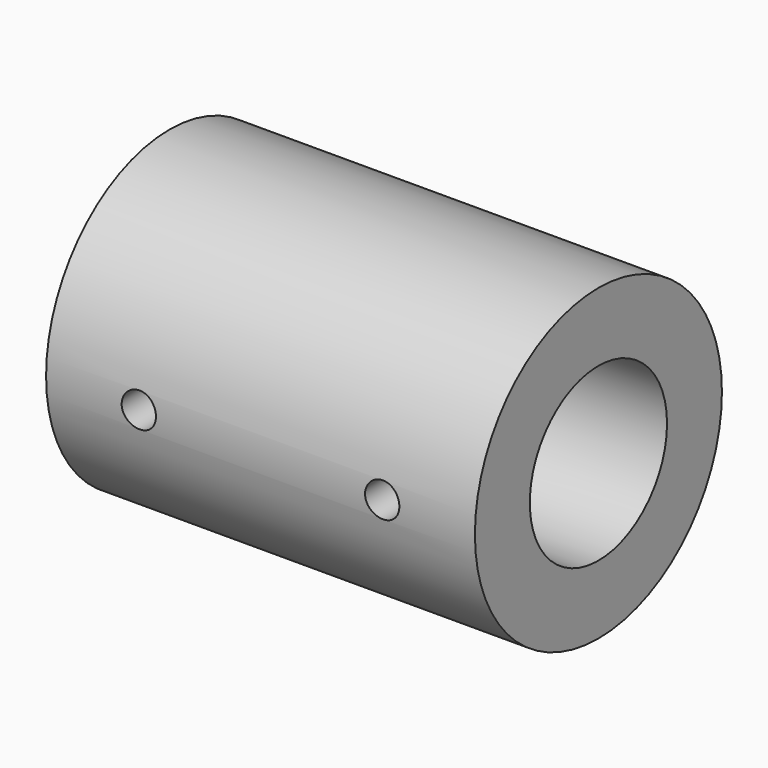
from build123d import *

# Parameters (mm, degrees)
F0_R     = 9
F1_DEPTH = 12.5
F2_R     = 5
F3_DEPTH = 12
F4_R     = 2.5
F5_DEPTH = 13
F7_R     = 1
F8_DEPTH = 9


with BuildPart() as f1:
    # F0 (on Right) → F1 (new body, symmetric)
    with BuildSketch(Plane.YZ):
        Circle(F0_R)
    extrude(amount=F1_DEPTH, both=True)

    # F2 (on face) → F3 (cut)
    with BuildSketch(Plane.YZ.offset(12.5)):
        Circle(F2_R)
    extrude(amount=-F3_DEPTH, mode=Mode.SUBTRACT)

    # F4 (on face) → F5 (cut)
    with BuildSketch(Plane(origin=(-12.5, 0, 0), x_dir=(0, -1, 0), z_dir=(-1, 0, 0))):
        Circle(F4_R)
    extrude(amount=-F5_DEPTH, mode=Mode.SUBTRACT)

    # F7 (on offset) → F8 (cut)
    with BuildSketch(Plane.XZ.offset(9)):
        with Locations((7.094594, 0)):
            Circle(F7_R)
        with Locations((-7.094594, 0)):
            Circle(F7_R)
    extrude(amount=-F8_DEPTH, mode=Mode.SUBTRACT)


solid = f1.part
